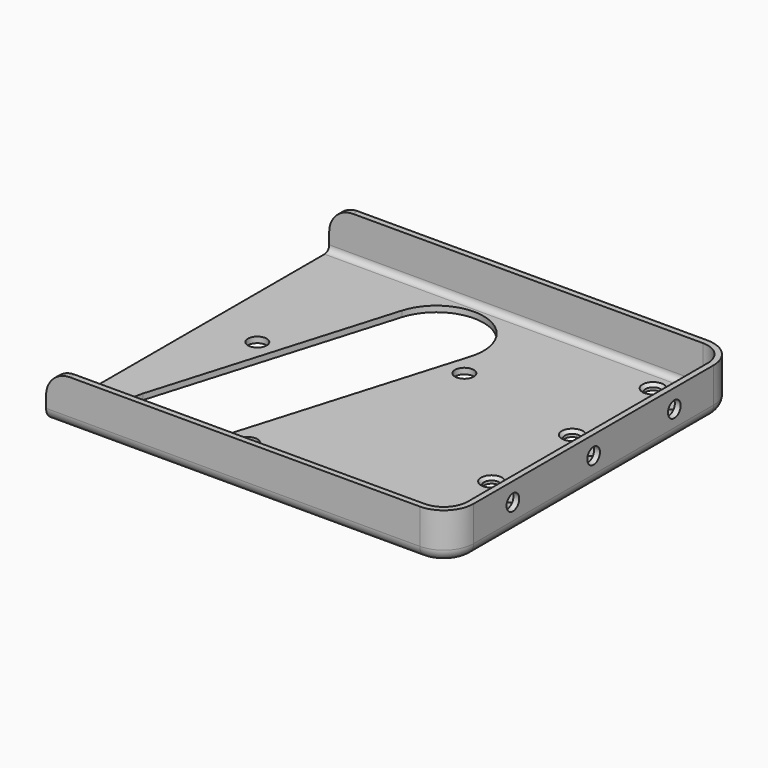
from build123d import *

# Parameters (mm, degrees)
F0_W            = 86.4
F0_H            = 77
F1_DEPTH        = 10
F2_R            = 6.4
F3_R            = 5.1
F4_R            = 2.5
F5_T            = -1.25
F7_DEPTH        = 1.251
F9_D            = 4
F11_D           = 3.2
F13_D           = 3.4
F15_D           = 3.2
F15_CSINK_D     = 4.5
F15_CSINK_ANGLE = 90


with BuildPart() as f1:
    # F0 (on Top) → F1 (new body)
    with BuildSketch(Plane.XY):
        with Locations((-43.2, 0)):
            Rectangle(F0_W, F0_H)
    extrude(amount=F1_DEPTH)

    # F2
    f2_edges = [f1.edges().sort_by_distance(p)[0] for p in [
        (0, 38.5, 5),
        (0, -38.5, 5),
    ]]
    fillet(f2_edges, radius=F2_R)

    # F3
    f3_edges = [f1.edges().sort_by_distance(p)[0] for p in [
        (-86.4, 0, 10),
    ]]
    fillet(f3_edges, radius=F3_R)

    # F4
    f4_edges = [f1.edges().sort_by_distance(p)[0] for p in [
        (-46.4, -38.5, 0),
    ]]
    fillet(f4_edges, radius=F4_R)

    # F5
    f5_openings = [f1.faces().sort_by_distance(p)[0] for p in [
        (-86.4, 0, 2.463545),
        (-84.906245, 0, 8.506245),
        (-40.760453, 0, 10),
    ]]
    offset(amount=F5_T, openings=f5_openings)

    # F6 (on face) → F7 (cut, through all)
    with BuildSketch(Plane.XY.offset(1.25)):
        with BuildLine():
            ThreePointArc((-78.6069464832, -22.3663473264), (-71.8133409919, -34.9308578393), (-59.248830479, -28.1372523479))
            Line((-59.248830479, -28.1372523479), (-44.1930535168, 22.3663473264))
            ThreePointArc((-44.1930535168, 22.3663473264), (-50.9866590081, 34.9308578393), (-63.551169521, 28.1372523479))
            Line((-63.551169521, 28.1372523479), (-78.6069464832, -22.3663473264))
        make_face()
    extrude(amount=-F7_DEPTH, mode=Mode.SUBTRACT)

    # F9 (through all)
    with Locations(Plane.XY.offset(1.25)):
        with Locations((-75.2956773297, 4.1424813274), (-41.2191785873, 16.9406153109), (-53.7894667532, -25.2255779656)):
            Hole(F9_D / 2)

    # F11 (through all)
    with Locations(Plane.XY.offset(1.25)):
        with Locations((-5.1, -27), (-5.1, -16.2), (-5.1, -5.4), (-5.1, 5.4), (-5.1, 16.2), (-5.1, 27)):
            Hole(F11_D / 2)

    # F13 (through all)
    with Locations(Plane.YZ):
        with Locations((-21.6, 6), (0, 6), (21.6, 6)):
            Hole(F13_D / 2)

    # F15 (through all)
    with Locations(Plane.XY.offset(1.25)):
        with Locations((-13.2, -32.4), (-13.2, -10.8), (-13.2, 10.8), (-13.2, 32.4)):
            CounterSinkHole(F15_D / 2, F15_CSINK_D / 2, counter_sink_angle=F15_CSINK_ANGLE)


solid = f1.part
